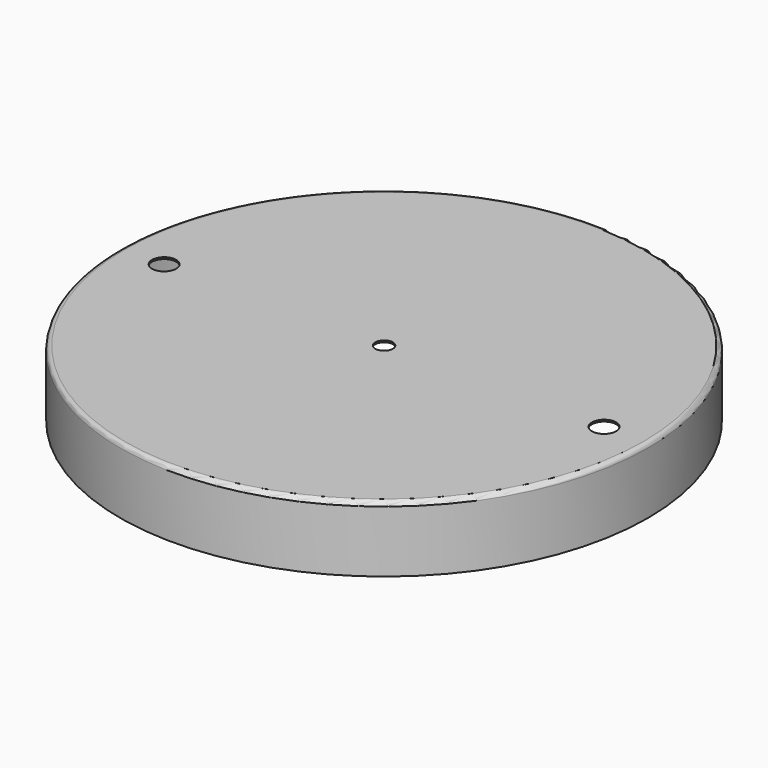
from build123d import *

# Parameters (mm, degrees)
F3_R     = 6.985
F3_R_2   = 5.08
F4_DEPTH = 1.016


with BuildPart() as f2:
    # F1 (on Front) → F2 (revolve)
    with BuildSketch(Plane.XZ):
        with BuildLine():
            Line((149.86, 0), (0, 0))
            Line((0, 0), (0, -1.016))
            Line((0, -1.016), (149.86, -1.016))
            ThreePointArc((149.86, -1.016), (150.937631, -1.462369), (151.384, -2.54))
            Line((151.384, -2.54), (151.384, -38.1))
            Line((151.384, -38.1), (152.4, -38.1))
            Line((152.4, -38.1), (152.4, -2.54))
            ThreePointArc((152.4, -2.54), (151.656051, -0.743949), (149.86, 0))
        make_face()
    revolve(axis=Axis((0, 0, -9.205109), (0, 0, -1)))

    # F3 (on face) → F4 (cut, through all)
    with BuildSketch(Plane.XY):
        with Locations((127, 0)):
            Circle(F3_R)
        with Locations((-127, 0)):
            Circle(F3_R)
        Circle(F3_R_2)
    extrude(amount=-F4_DEPTH, mode=Mode.SUBTRACT)


solid = f2.part
